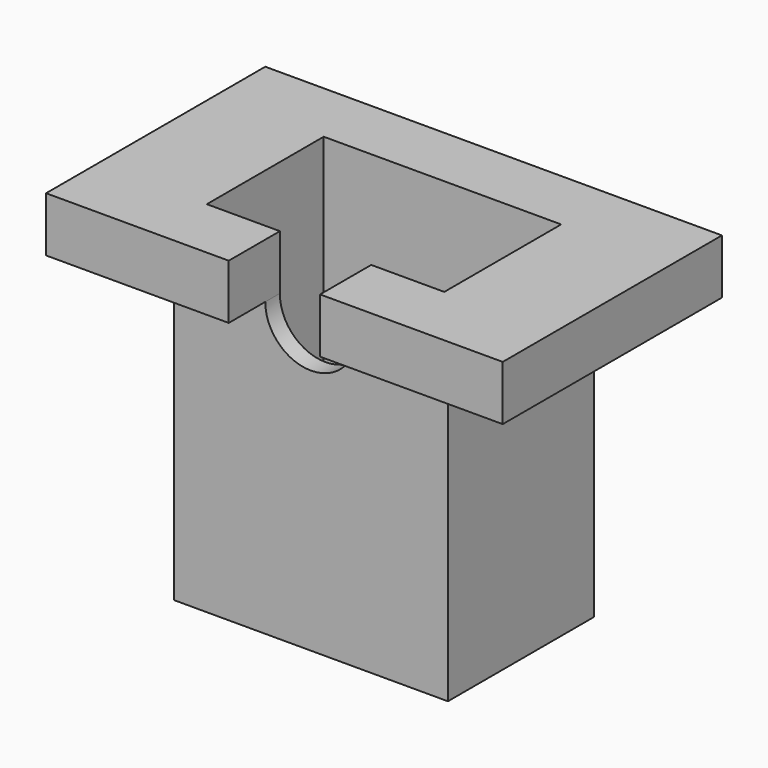
from build123d import *

# Parameters (mm, degrees)
F0_W     = 30
F0_H     = 20
F1_DEPTH = 2
F2_W     = 30
F2_H     = 20
F2_W_2   = 26
F2_H_2   = 16
F3_DEPTH = 30
F4_R     = 3.1
F5_DEPTH = 25
F6_W     = 50
F6_H     = 30
F6_W_2   = 26
F6_H_2   = 16
F7_DEPTH = 6
F9_DEPTH = 25


with BuildPart() as f1:
    # F0 (on Top) → F1 (new body)
    with BuildSketch(Plane.XY):
        with Locations((15, 10)):
            Rectangle(F0_W, F0_H)
    extrude(amount=F1_DEPTH)

    # F2 (on face) → F3 (join)
    with BuildSketch(Plane.XY.offset(2)):
        with Locations((15, 10)):
            Rectangle(F2_W, F2_H)
        with Locations((15, 10)):
            Rectangle(F2_W_2, F2_H_2, mode=Mode.SUBTRACT)
    extrude(amount=F3_DEPTH)

    # F4 (on face) → F5 (cut)
    with BuildSketch(Plane(origin=(0, 0, 0), x_dir=(1, 0, 0), z_dir=(0, 0, -1))):
        with Locations((8, -10)):
            Circle(F4_R)
        with Locations((22, -10)):
            Circle(F4_R)
    extrude(amount=-F5_DEPTH, mode=Mode.SUBTRACT)

    # F6 (on face) → F7 (join)
    with BuildSketch(Plane.XY.offset(32)):
        with Locations((15, 10)):
            Rectangle(F6_W, F6_H)
        with Locations((15, 10)):
            Rectangle(F6_W_2, F6_H_2, mode=Mode.SUBTRACT)
    extrude(amount=F7_DEPTH)

    # F8 (on face) → F9 (cut)
    with BuildSketch(Plane(origin=(0, 2, 0), x_dir=(-1, 0, 0), z_dir=(0, 1, 0))):
        with BuildLine():
            Line((-20, 38), (-20, 32))
            ThreePointArc((-20, 32), (-15, 27), (-10, 32))
            Line((-10, 32), (-10, 38))
            Line((-10, 38), (-20, 38))
        make_face()
    extrude(amount=-F9_DEPTH, mode=Mode.SUBTRACT)


solid = f1.part
